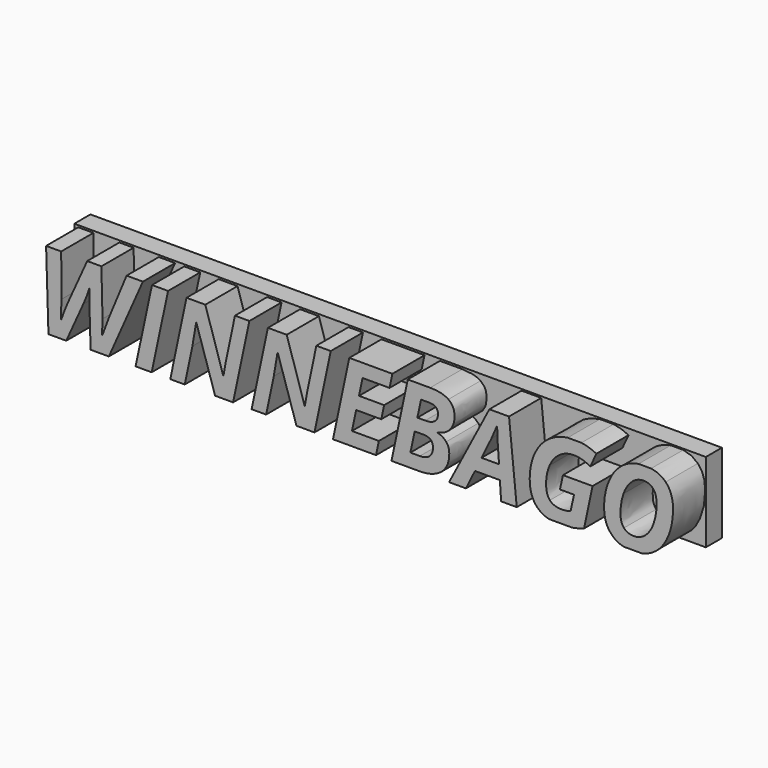
from build123d import *

# Parameters (mm, degrees)
F1_DEPTH = 4.7625
F2_W     = 49.8453788459
F2_H     = 6.2797321007
F3_DEPTH = 1.5875


with BuildPart() as f1:
    # F0 (on Front) → F1 (new body)
    with BuildSketch(Plane.XZ):
        with BuildLine():
            Line((19.1762379309, 16.2369174795), (18.1876477145, 16.2369174795))
            add(Edge.make_bspline(
                [(17.0136633735, 15.7785180164), (17.5412377265, 16.1392857724), (18.1876477145, 16.2369174795)],
                knots=[0, 0, 0, 0.7293779574, 0.7293779574, 0.7293779574], degree=2))
            add(Edge.make_bspline(
                [(15.8788206787, 14.3591336265), (16.2903424292, 15.2838941353), (17.0136633735, 15.7785180164)],
                knots=[0, 0, 0, 1, 1, 1], degree=2))
            add(Edge.make_bspline(
                [(15.4672989282, 12.3334360921), (15.4672989282, 13.4343731177), (15.8788206787, 14.3591336265)],
                knots=[0, 0, 0, 1, 1, 1], degree=2))
            add(Edge.make_bspline(
                [(16.063639817, 10.6315044583), (15.4672989282, 11.2444657733), (15.4672989282, 12.3334360921)],
                knots=[0, 0, 0, 1, 1, 1], degree=2))
            add(Edge.make_bspline(
                [(17.0011065204, 10.1023100909), (16.4395285246, 10.2451394768), (16.063639817, 10.6315044583)],
                knots=[0.3696747706, 0.3696747706, 0.3696747706, 1, 1, 1], degree=2))
            Line((17.0011065204, 10.1023100909), (18.468034725, 10.1023100909))
            add(Edge.make_bspline(
                [(19.369110162, 10.492557696), (18.9548672484, 10.2178086752), (18.468034725, 10.1023100909)],
                knots=[0, 0, 0, 0.5796214889, 0.5796214889, 0.5796214889], degree=2))
            add(Edge.make_bspline(
                [(20.4953102353, 11.8953216598), (20.0837884848, 10.9665722487), (19.369110162, 10.492557696)],
                knots=[0, 0, 0, 1, 1, 1], degree=2))
            add(Edge.make_bspline(
                [(20.9068319858, 13.9994676054), (20.9068319858, 12.8240710709), (20.4953102353, 11.8953216598)],
                knots=[0, 0, 0, 1, 1, 1], degree=2))
            add(Edge.make_bspline(
                [(20.3251170719, 15.6748065574), (20.9068319858, 15.0764712174), (20.9068319858, 13.9994676054)],
                knots=[0, 0, 0, 1, 1, 1], degree=2))
            add(Edge.make_bspline(
                [(19.1762379309, 16.2369174795), (19.8865347642, 16.1259197882), (20.3251170719, 15.6748065574)],
                knots=[0.2460528392, 0.2460528392, 0.2460528392, 1, 1, 1], degree=2))
        make_face()
        with BuildLine():
            add(Edge.make_bspline(
                [(18.5799723302, 15.2001271877), (18.0773706446, 15.2001271877), (17.6578710896, 14.8205166553)],
                knots=[0, 0, 0, 1, 1, 1], degree=2))
            add(Edge.make_bspline(
                [(19.3405230291, 14.8783557382), (19.070607309, 15.2001271877), (18.5799723302, 15.2001271877)],
                knots=[0, 0, 0, 1, 1, 1], degree=2))
            add(Edge.make_bspline(
                [(19.6104387491, 13.9662267532), (19.6104387491, 14.5565842887), (19.3405230291, 14.8783557382)],
                knots=[0, 0, 0, 1, 1, 1], degree=2))
            add(Edge.make_bspline(
                [(19.3777527836, 12.4836847441), (19.6104387491, 13.1445128863), (19.6104387491, 13.9662267532)],
                knots=[0, 0, 0, 1, 1, 1], degree=2))
            add(Edge.make_bspline(
                [(18.7315506164, 11.4611961297), (19.145066818, 11.8228566019), (19.3777527836, 12.4836847441)],
                knots=[0, 0, 0, 1, 1, 1], degree=2))
            add(Edge.make_bspline(
                [(17.8154327291, 11.0995356576), (18.3180344147, 11.0995356576), (18.7315506164, 11.4611961297)],
                knots=[0, 0, 0, 1, 1, 1], degree=2))
            add(Edge.make_bspline(
                [(17.036267153, 11.4113348514), (17.3128310435, 11.0995356576), (17.8154327291, 11.0995356576)],
                knots=[0, 0, 0, 1, 1, 1], degree=2))
            add(Edge.make_bspline(
                [(16.7597032626, 12.3334360921), (16.7597032626, 11.7231340453), (17.036267153, 11.4113348514)],
                knots=[0, 0, 0, 1, 1, 1], degree=2))
            add(Edge.make_bspline(
                [(16.9990373985, 13.7760890785), (16.7597032626, 13.1112720341), (16.7597032626, 12.3334360921)],
                knots=[0, 0, 0, 1, 1, 1], degree=2))
            add(Edge.make_bspline(
                [(17.6578710896, 14.8205166553), (17.2383715345, 14.4409061229), (16.9990373985, 13.7760890785)],
                knots=[0, 0, 0, 1, 1, 1], degree=2))
        make_face(mode=Mode.SUBTRACT)
        with BuildLine():
            Line((13.6804748435, 16.2369174795), (12.5966182075, 16.2369174795))
            add(Edge.make_bspline(
                [(11.291583072, 15.7845013698), (11.8784382147, 16.1400978494), (12.5966182075, 16.2369174795)],
                knots=[0, 0, 0, 0.727726129, 0.727726129, 0.727726129], degree=2))
            add(Edge.make_bspline(
                [(10.0403973944, 14.396363381), (10.4851599971, 15.2958608421), (11.291583072, 15.7845013698)],
                knots=[0, 0, 0, 1, 1, 1], degree=2))
            add(Edge.make_bspline(
                [(9.5956347916, 12.3839621874), (9.5956347916, 13.4968659198), (10.0403973944, 14.396363381)],
                knots=[0, 0, 0, 1, 1, 1], degree=2))
            add(Edge.make_bspline(
                [(10.1820034248, 10.6295100071), (9.5956347916, 11.240476871), (9.5956347916, 12.3839621874)],
                knots=[0, 0, 0, 1, 1, 1], degree=2))
            add(Edge.make_bspline(
                [(11.1145364155, 10.1023100909), (10.5512528494, 10.2447705273), (10.1820034248, 10.6295100071)],
                knots=[0.3702776654, 0.3702776654, 0.3702776654, 1, 1, 1], degree=2))
            Line((11.1145364155, 10.1023100909), (12.9454485358, 10.1023100909))
            add(Edge.make_bspline(
                [(13.8837047283, 10.3469627633), (13.382083776, 10.1753555954), (12.9454485358, 10.1023100909)],
                knots=[0, 0, 0, 0.9025416354, 0.9025416354, 0.9025416354], degree=2))
            Line((13.8837047283, 10.3469627633), (14.5578292114, 13.514151163))
            Line((14.5578292114, 13.514151163), (12.2176732149, 13.514151163))
            Line((12.2176732149, 13.514151163), (11.9849872494, 12.4411364533))
            Line((11.9849872494, 12.4411364533), (13.0952317136, 12.4411364533))
            Line((13.0952317136, 12.4411364533), (12.8199974572, 11.1992582142))
            add(Edge.make_bspline(
                [(12.113961756, 11.0995356576), (12.4304146691, 11.0995356576), (12.8199974572, 11.1992582142)],
                knots=[0, 0, 0, 1, 1, 1], degree=2))
            add(Edge.make_bspline(
                [(11.1892012472, 11.4339386309), (11.4903633683, 11.0995356576), (12.113961756, 11.0995356576)],
                knots=[0, 0, 0, 1, 1, 1], degree=2))
            add(Edge.make_bspline(
                [(10.888039126, 12.4836847441), (10.888039126, 11.7683416043), (11.1892012472, 11.4339386309)],
                knots=[0, 0, 0, 1, 1, 1], degree=2))
            add(Edge.make_bspline(
                [(11.172580821, 13.8565319409), (10.888039126, 13.2189723953), (10.888039126, 12.4836847441)],
                knots=[0, 0, 0, 1, 1, 1], degree=2))
            add(Edge.make_bspline(
                [(11.9583945676, 14.8391315326), (11.4571225161, 14.4940914865), (11.172580821, 13.8565319409)],
                knots=[0, 0, 0, 1, 1, 1], degree=2))
            add(Edge.make_bspline(
                [(13.0952317136, 15.1841715786), (12.4596666191, 15.1841715786), (11.9583945676, 14.8391315326)],
                knots=[0, 0, 0, 1, 1, 1], degree=2))
            add(Edge.make_bspline(
                [(13.7640376603, 15.084449022), (13.4568921858, 15.1841715786), (13.0952317136, 15.1841715786)],
                knots=[0, 0, 0, 1, 1, 1], degree=2))
            add(Edge.make_bspline(
                [(14.3783286094, 14.8185222042), (14.0711831348, 14.9847264653), (13.7640376603, 15.084449022)],
                knots=[0, 0, 0, 1, 1, 1], degree=2))
            Line((14.3783286094, 14.8185222042), (14.8569968814, 15.8609553299))
            add(Edge.make_bspline(
                [(13.6804748435, 16.2369174795), (14.2957197155, 16.1509485322), (14.8569968814, 15.8609553299)],
                knots=[0.2964515946, 0.2964515946, 0.2964515946, 1, 1, 1], degree=2))
        make_face()
        Polygon((7.3392457428, 10.1023100909), (8.5731461773, 10.1023100909), (7.9628441305, 16.2026712907), (6.4124907828, 16.2026712907), (3.2306764081, 10.1023100909), (4.560310497, 10.1023100909), (5.2743240027, 11.5489519796), (7.2395231861, 11.5489519796), align=None)
        with BuildLine():
            Line((7.0693300227, 14.083234553), (7.1770303839, 12.6286148598))
            Line((7.1770303839, 12.6286148598), (5.7942109315, 12.6286148598))
            Line((5.7942109315, 12.6286148598), (6.5747061417, 14.2281646687))
            add(Edge.make_bspline(
                [(7.028111366, 15.2838941353), (6.8446218617, 14.785281352), (6.5747061417, 14.2281646687)],
                knots=[0, 0, 0, 1, 1, 1], degree=2))
            Line((7.028111366, 15.2838941353), (7.028111366, 15.1336454832))
            add(Edge.make_bspline(
                [(7.0693300227, 14.083234553), (7.028111366, 14.6270548954), (7.028111366, 15.1336454832)],
                knots=[0, 0, 0, 1, 1, 1], degree=2))
        make_face(mode=Mode.SUBTRACT)
        with BuildLine():
            Line((-1.3153425418, 10.1023100909), (0.8532906572, 10.1023100909))
            add(Edge.make_bspline(
                [(2.6110669227, 10.6175433003), (1.9755018282, 10.1023100909), (0.8532906572, 10.1023100909)],
                knots=[0, 0, 0, 1, 1, 1], degree=2))
            add(Edge.make_bspline(
                [(3.2466320172, 12.0847945174), (3.2466320172, 11.1327765098), (2.6110669227, 10.6175433003)],
                knots=[0, 0, 0, 1, 1, 1], degree=2))
            add(Edge.make_bspline(
                [(2.9993200767, 12.8340433265), (3.2466320172, 12.5408590099), (3.2466320172, 12.0847945174)],
                knots=[0, 0, 0, 1, 1, 1], degree=2))
            add(Edge.make_bspline(
                [(2.3371623004, 13.2349280043), (2.7520081361, 13.1272276431), (2.9993200767, 12.8340433265)],
                knots=[0, 0, 0, 1, 1, 1], degree=2))
            Line((2.3371623004, 13.2349280043), (2.3371623004, 13.260191052))
            add(Edge.make_bspline(
                [(3.3171026239, 13.798028041), (2.9727273949, 13.3931544609), (2.3371623004, 13.260191052)],
                knots=[0, 0, 0, 1, 1, 1], degree=2))
            add(Edge.make_bspline(
                [(3.6614778529, 14.8265000087), (3.6614778529, 14.202901621), (3.3171026239, 13.798028041)],
                knots=[0, 0, 0, 1, 1, 1], degree=2))
            add(Edge.make_bspline(
                [(3.1754965934, 15.8383515504), (3.6614778529, 15.4992948577), (3.6614778529, 14.8265000087)],
                knots=[0, 0, 0, 1, 1, 1], degree=2))
            add(Edge.make_bspline(
                [(1.7388269604, 16.177408243), (2.689515334, 16.177408243), (3.1754965934, 15.8383515504)],
                knots=[0, 0, 0, 1, 1, 1], degree=2))
            Line((1.7388269604, 16.177408243), (-0.032245646, 16.177408243))
            Line((-0.032245646, 16.177408243), (-1.3153425418, 10.1023100909))
        make_face()
        with BuildLine():
            Line((0.9237612639, 11.166017362), (0.176506906, 11.166017362))
            Line((0.176506906, 11.166017362), (0.5168932327, 12.7496115619))
            Line((0.5168932327, 12.7496115619), (1.2016547885, 12.7496115619))
            add(Edge.make_bspline(
                [(1.9622054873, 12.0754870788), (1.9622054873, 12.7496115619), (1.2016547885, 12.7496115619)],
                knots=[0, 0, 0, 1, 1, 1], degree=2))
            add(Edge.make_bspline(
                [(1.6863064139, 11.4073459491), (1.9622054873, 11.6486745363), (1.9622054873, 12.0754870788)],
                knots=[0, 0, 0, 1, 1, 1], degree=2))
            add(Edge.make_bspline(
                [(0.9237612639, 11.166017362), (1.4104073404, 11.166017362), (1.6863064139, 11.4073459491)],
                knots=[0, 0, 0, 1, 1, 1], degree=2))
        make_face(mode=Mode.SUBTRACT)
        with BuildLine():
            Line((1.3479145383, 13.7707705421), (0.7283050528, 13.7707705421))
            Line((0.7283050528, 13.7707705421), (1.015506016, 15.1216787764))
            Line((1.015506016, 15.1216787764), (1.6470822083, 15.1216787764))
            add(Edge.make_bspline(
                [(2.3531179095, 14.5525953864), (2.3531179095, 15.1216787764), (1.6470822083, 15.1216787764)],
                knots=[0, 0, 0, 1, 1, 1], degree=2))
            add(Edge.make_bspline(
                [(2.1018170667, 13.9728749237), (2.3531179095, 14.1749793052), (2.3531179095, 14.5525953864)],
                knots=[0, 0, 0, 1, 1, 1], degree=2))
            add(Edge.make_bspline(
                [(1.3479145383, 13.7707705421), (1.8505162239, 13.7707705421), (2.1018170667, 13.9728749237)],
                knots=[0, 0, 0, 1, 1, 1], degree=2))
        make_face(mode=Mode.SUBTRACT)
        Polygon((-5.9278431961, 10.1023100909), (-2.5332873672, 10.1023100909), (-2.3085792062, 11.166017362), (-4.4359937484, 11.166017362), (-4.1035852262, 12.7323263187), (-2.1224304337, 12.7323263187), (-1.8937333704, 13.7880557853), (-3.876217797, 13.7880557853), (-3.5969946383, 15.1216787764), (-1.4695800961, 15.1216787764), (-1.2448719351, 16.177408243), (-4.6447463003, 16.177408243), align=None)
        with BuildLine():
            Line((-11.0682085838, 16.177408243), (-12.3513054795, 10.1023100909))
            Line((-12.3513054795, 10.1023100909), (-11.2091497972, 10.1023100909))
            Line((-11.2091497972, 10.1023100909), (-10.6068255549, 12.961023382))
            add(Edge.make_bspline(
                [(-10.3329209326, 14.5645620932), (-10.4658843415, 13.6670590832), (-10.6068255549, 12.961023382)],
                knots=[0, 0, 0, 1, 1, 1], degree=2))
            Line((-10.3329209326, 14.5645620932), (-10.3156356894, 14.6975255021))
            Line((-10.3156356894, 14.6975255021), (-10.2903726418, 14.6975255021))
            Line((-10.2903726418, 14.6975255021), (-8.8118195349, 10.1023100909))
            Line((-8.8118195349, 10.1023100909), (-7.3904406939, 10.1023100909))
            Line((-7.3904406939, 10.1023100909), (-6.106014164, 16.177408243))
            Line((-6.106014164, 16.177408243), (-7.2455105782, 16.177408243))
            add(Edge.make_bspline(
                [(-7.9934297532, 12.6040166291), (-7.8810756727, 13.1897204453), (-7.2455105782, 16.177408243)],
                knots=[0, 0, 0, 1, 1, 1], degree=2))
            add(Edge.make_bspline(
                [(-8.154980295, 11.7018598998), (-8.1057838337, 12.018312813), (-7.9934297532, 12.6040166291)],
                knots=[0, 0, 0, 1, 1, 1], degree=2))
            Line((-8.154980295, 11.7018598998), (-8.1722655382, 11.7018598998))
            Line((-8.1722655382, 11.7018598998), (-9.5843369406, 16.177408243))
            Line((-9.5843369406, 16.177408243), (-11.0682085838, 16.177408243))
        make_face()
        with BuildLine():
            Line((-17.4916708672, 16.177408243), (-18.7747677629, 10.1023100909))
            Line((-18.7747677629, 10.1023100909), (-17.6326120806, 10.1023100909))
            Line((-17.6326120806, 10.1023100909), (-17.0302878383, 12.961023382))
            add(Edge.make_bspline(
                [(-16.756383216, 14.5645620932), (-16.8893466249, 13.6670590832), (-17.0302878383, 12.961023382)],
                knots=[0, 0, 0, 1, 1, 1], degree=2))
            Line((-16.756383216, 14.5645620932), (-16.7390979729, 14.6975255021))
            Line((-16.7390979729, 14.6975255021), (-16.7138349252, 14.6975255021))
            Line((-16.7138349252, 14.6975255021), (-15.2352818183, 10.1023100909))
            Line((-15.2352818183, 10.1023100909), (-13.8139029773, 10.1023100909))
            Line((-13.8139029773, 10.1023100909), (-12.5294764474, 16.177408243))
            Line((-12.5294764474, 16.177408243), (-13.6689728616, 16.177408243))
            add(Edge.make_bspline(
                [(-14.4168920366, 12.6040166291), (-14.3045379561, 13.1897204453), (-13.6689728616, 16.177408243)],
                knots=[0, 0, 0, 1, 1, 1], degree=2))
            add(Edge.make_bspline(
                [(-14.5784425784, 11.7018598998), (-14.5292461171, 12.018312813), (-14.4168920366, 12.6040166291)],
                knots=[0, 0, 0, 1, 1, 1], degree=2))
            Line((-14.5784425784, 11.7018598998), (-14.5957278216, 11.7018598998))
            Line((-14.5957278216, 11.7018598998), (-16.007799224, 16.177408243))
            Line((-16.007799224, 16.177408243), (-17.4916708672, 16.177408243))
        make_face()
        Polygon((-20.2160911153, 16.177408243), (-21.512484352, 10.1023100909), (-20.2453430653, 10.1023100909), (-18.9489498286, 16.177408243), align=None)
        with BuildLine():
            Line((-28.5768302662, 16.177408243), (-28.3893518597, 10.1023100909))
            Line((-28.3893518597, 10.1023100909), (-26.9852582618, 10.1023100909))
            Line((-26.9852582618, 10.1023100909), (-25.6396685639, 13.0899978886))
            add(Edge.make_bspline(
                [(-25.1610002919, 14.3318761276), (-25.3524676007, 13.7255629831), (-25.6396685639, 13.0899978886)],
                knots=[0, 0, 0, 1, 1, 1], degree=2))
            Line((-25.1610002919, 14.3318761276), (-25.1450446828, 14.3318761276))
            add(Edge.make_bspline(
                [(-25.1610002919, 13.6763665218), (-25.1610002919, 14.0420158963), (-25.1450446828, 14.3318761276)],
                knots=[0, 0, 0, 1, 1, 1], degree=2))
            Line((-25.1610002919, 13.6763665218), (-25.1530224873, 13.0979756932))
            Line((-25.1530224873, 13.0979756932), (-25.0612777352, 10.1023100909))
            Line((-25.0612777352, 10.1023100909), (-23.6239432851, 10.1023100909))
            Line((-23.6239432851, 10.1023100909), (-20.9354231574, 16.177408243))
            Line((-20.9354231574, 16.177408243), (-22.2198496872, 16.177408243))
            Line((-22.2198496872, 16.177408243), (-23.5907024329, 12.8692786299))
            add(Edge.make_bspline(
                [(-24.1345227752, 11.419977473), (-23.9563518073, 11.9558200108), (-23.5907024329, 12.8692786299)],
                knots=[0, 0, 0, 1, 1, 1], degree=2))
            Line((-24.1345227752, 11.419977473), (-24.1597858229, 11.419977473))
            add(Edge.make_bspline(
                [(-24.1225560684, 12.5501664485), (-24.1225560684, 11.9425236699), (-24.1597858229, 11.419977473)],
                knots=[0, 0, 0, 1, 1, 1], degree=2))
            Line((-24.1225560684, 12.5501664485), (-24.2103119183, 16.177408243))
            Line((-24.2103119183, 16.177408243), (-25.3311934552, 16.177408243))
            Line((-25.3311934552, 16.177408243), (-26.8642615597, 12.7735449755))
            add(Edge.make_bspline(
                [(-27.1142327684, 12.1698910991), (-26.9267543619, 12.6538779075), (-26.8642615597, 12.7735449755)],
                knots=[0, 0, 0, 1, 1, 1], degree=2))
            add(Edge.make_bspline(
                [(-27.392126293, 11.419977473), (-27.301711175, 11.6859042908), (-27.1142327684, 12.1698910991)],
                knots=[0, 0, 0, 1, 1, 1], degree=2))
            Line((-27.392126293, 11.419977473), (-27.4173893407, 11.419977473))
            add(Edge.make_bspline(
                [(-27.3755058669, 12.1426336003), (-27.392126293, 11.6393670977), (-27.4173893407, 11.419977473)],
                knots=[0, 0, 0, 1, 1, 1], degree=2))
            add(Edge.make_bspline(
                [(-27.3588854408, 12.8613008253), (-27.3588854408, 12.6459001029), (-27.3755058669, 12.1426336003)],
                knots=[0, 0, 0, 1, 1, 1], degree=2))
            Line((-27.3588854408, 12.8613008253), (-27.3841484885, 16.177408243))
            Line((-27.3841484885, 16.177408243), (-28.5768302662, 16.177408243))
        make_face()
    extrude(amount=F1_DEPTH)


with BuildPart() as f3:
    # F2 (on Front) → F3 (new body)
    with BuildSketch(Plane.XZ):
        with Locations((-3.9659179747, 13.1871202029)):
            Rectangle(F2_W, F2_H)
    extrude(amount=F3_DEPTH)


solid = Compound([f1.part, f3.part])
